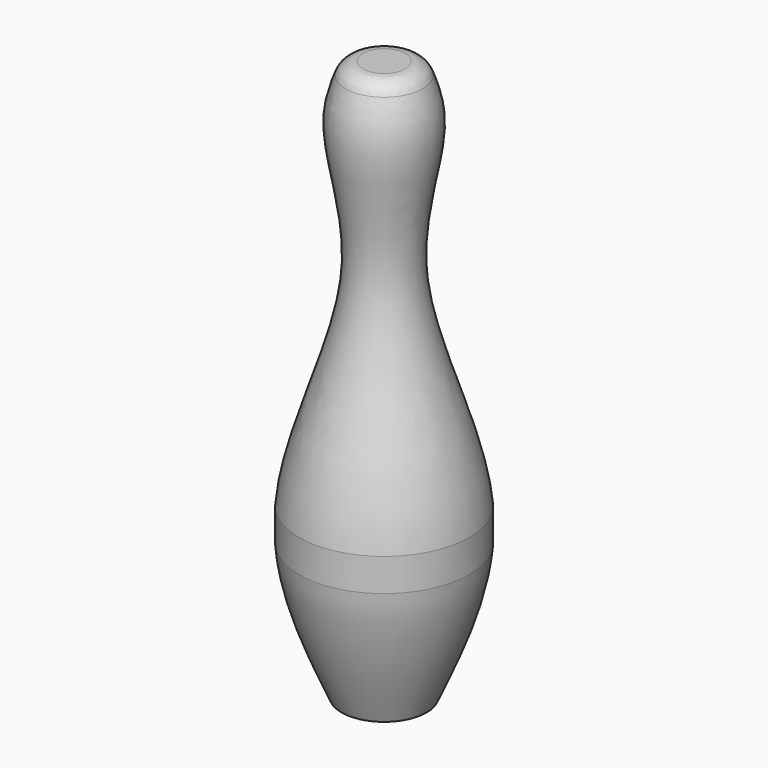
from build123d import *

# Parameters (mm, degrees)
F2_R = 12.7


with BuildPart() as f1:
    # F0 (on Front) → F1 (revolve)
    with BuildSketch(Plane.XZ):
        with BuildLine():
            Line((0, 114.3), (0, 0))
            Line((0, 0), (14.4836856052, 0))
            Line((14.4836856052, 0), (22.8346, 0))
            Line((22.8346, 0), (28.9814, 0))
            add(Edge.make_bspline(
                [(28.9814, 0), (42.1881970844, 29.9189965839), (55.3949941687, 59.8379931678), (57.9882, 92.0062074056)],
                knots=[0, 0, 0, 0, 0.2293514926, 0.2293514926, 0.2293514926, 0.2293514926], degree=3))
            Line((57.9882, 92.0062074056), (57.9882, 114.3))
            add(Edge.make_bspline(
                [(57.9882, 114.3), (54.2234868487, 159.4729448042), (4.658809757, 249.3112807238), (39.9737413256, 340.71777425), (27.7191496343, 369.5198139559), (22.8346, 381)],
                knots=[0.2814446489, 0.2814446489, 0.2814446489, 0.2814446489, 0.5925142902, 0.8375805392, 1, 1, 1, 1], degree=3))
            Line((22.8346, 381), (0, 381))
            Line((0, 381), (0, 342.9))
            Line((0, 342.9), (0, 254))
            Line((0, 254), (0, 114.3))
        make_face()
    revolve(axis=Axis((0, 0, 171.45), (0, 0, 1)))

    # F2
    f2_edges = [f1.edges().sort_by_distance(p)[0] for p in [
        (-22.8346, 0, 381),
    ]]
    fillet(f2_edges, radius=F2_R)


solid = f1.part
